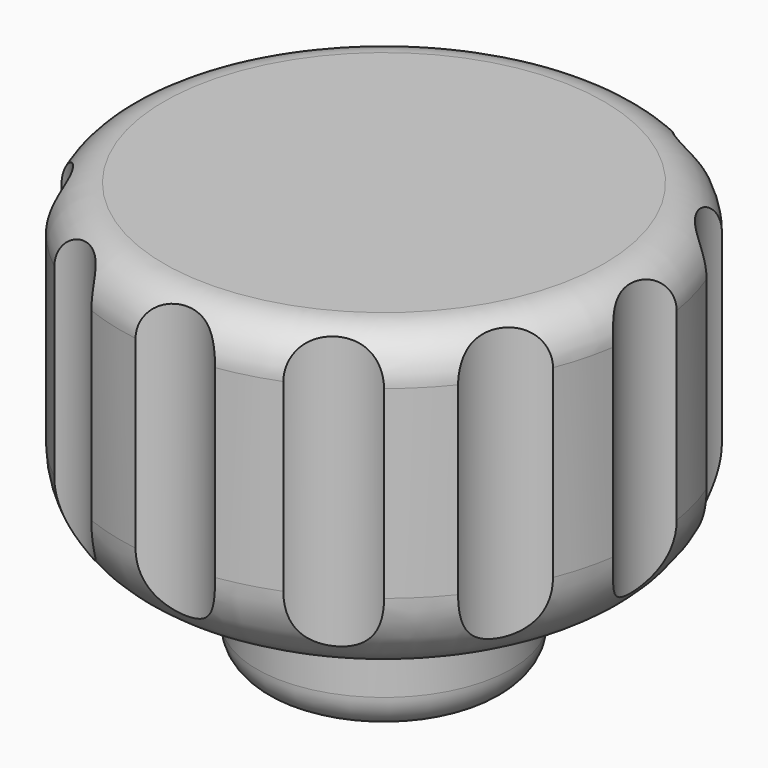
from build123d import *

# Parameters (mm, degrees)
F0_R      = 7.5
F0_W      = 5.1
F0_H      = 5.1
F2_DEPTH  = 3
F3_R      = 7.5
F3_W      = 5.1
F3_H      = 5.1
F4_DEPTH  = 5
F5_R      = 7.5
F5_W      = 5.1
F5_H      = 5.1
F6_DEPTH  = 1
F7_R      = 2.5
F9_R      = 1.25
F10_DEPTH = 25
F11_COUNT = 12
F11_ANGLE = 330
F12_R     = 3.6171361037
F13_DEPTH = 3
F14_R     = 1


with BuildPart() as f2:
    # F0 (on Top) → F2 (new body)
    with BuildSketch(Plane.XY):
        Circle(F0_R)
        Rectangle(F0_W, F0_H, mode=Mode.SUBTRACT)
    extrude(amount=F2_DEPTH)

    # F3 (on face) → F4 (join)
    with BuildSketch(Plane(origin=(0, 0, 0), x_dir=(1, 0, 0), z_dir=(0, 0, -1))):
        Circle(F3_R)
        Rectangle(F3_W, F3_H, mode=Mode.SUBTRACT)
        Rectangle(F3_W, F3_H)
        Polygon((-1.1835680518, 2.05), (1.1835680518, 2.05), (2.3671361037, 0), (1.1835680518, -2.05), (-1.1835680518, -2.05), (-2.3671361037, 0), align=None, mode=Mode.SUBTRACT)
    extrude(amount=F4_DEPTH)

    # F5 (on face) → F6 (join)
    with BuildSketch(Plane.XY.offset(3)):
        Circle(F5_R)
        Rectangle(F5_W, F5_H, mode=Mode.SUBTRACT)
        Rectangle(F5_W, F5_H)
    extrude(amount=F6_DEPTH)

    # F7
    f7_edges = [f2.edges().sort_by_distance(p)[0] for p in [
        (-7.5, 0, -5),
    ]]
    fillet(f7_edges, radius=F7_R)

    # F9
    f9_edges = [f2.edges().sort_by_distance(p)[0] for p in [
        (-7.5, 0, 4),
    ]]
    fillet(f9_edges, radius=F9_R)

    # F11: F10 ×12 about axis
    f11_axis = Axis((0, 0, 6.6430433653), (0, 0, 1))


with BuildPart() as f10:
    # F8 (on face) → F10 (new body)
    with BuildSketch(Plane.XY.offset(4)):
        with BuildLine():
            ThreePointArc((1.1306490821, 7.4142857143), (0, 7.5), (-1.1306490821, 7.4142857143))
            ThreePointArc((-1.1306490821, 7.4142857143), (0, 7), (1.1306490821, 7.4142857143))
        make_face()
    extrude(amount=-F10_DEPTH)


with BuildPart() as f2_1:
    add(f2.part)
    for i in range(1, F11_COUNT):
        add(f10.part.rotate(f11_axis, i * F11_ANGLE / (F11_COUNT - 1)), mode=Mode.SUBTRACT)

    # F11#seed: cut F10
    add(f10.part, mode=Mode.SUBTRACT)

    # F12 (on face) → F13 (join)
    with BuildSketch(Plane(origin=(0, 0, -5), x_dir=(1, 0, 0), z_dir=(0, 0, -1))):
        Circle(F12_R)
        Polygon((-2.3671361037, 0), (-1.1835680518, 2.05), (1.1835680518, 2.05), (2.3671361037, 0), (1.1835680518, -2.05), (-1.1835680518, -2.05), align=None, mode=Mode.SUBTRACT)
    extrude(amount=F13_DEPTH)

    # F14
    f14_edges = [f2_1.edges().sort_by_distance(p)[0] for p in [
        (-3.617136, 0, -8),
    ]]
    fillet(f14_edges, radius=F14_R)


solid = f2_1.part
